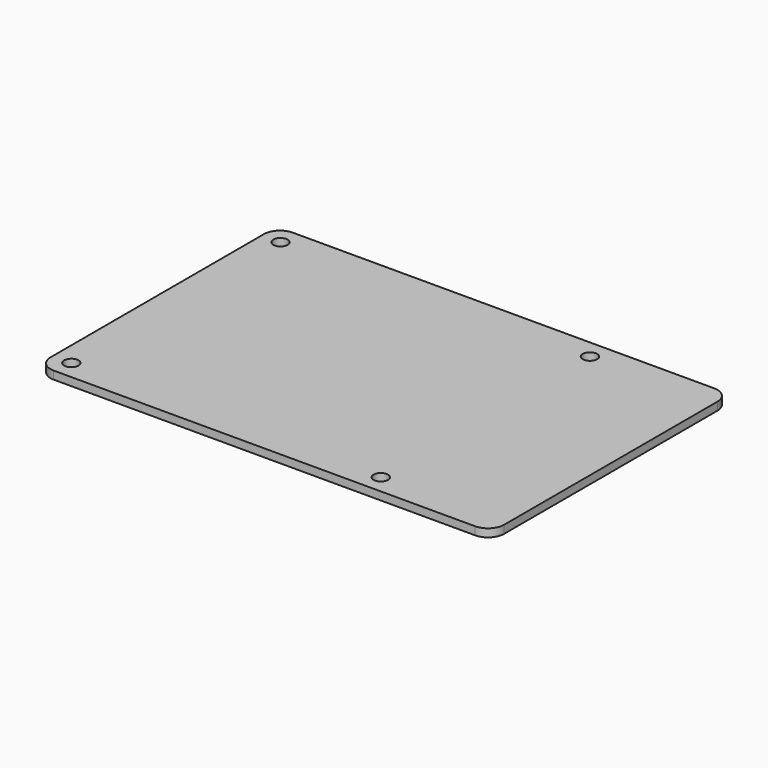
from build123d import *

# Parameters (mm, degrees)
CYLINDER_R     = 1.35
CYLINDER_DEPTH = 1.5
ARRAY_X_COUNT  = 2
ARRAY_X_PITCH  = 58
ARRAY_Y_COUNT  = 2
ARRAY_Y_PITCH  = 49
BOX_W          = 85
BOX_H          = 56
BOX_DEPTH      = 1.5
FILLET006_R    = 3


with BuildPart() as mounting_holes:
    # Cylinder → Cylinder (new body)
    with BuildSketch(Plane(origin=(3.5, 3.5, 0), x_dir=(1, 0, 0), z_dir=(0, 0, 1))):
        Circle(CYLINDER_R)
    extrude(amount=CYLINDER_DEPTH)

    # Array X: Mounting Holes ×2


with BuildPart() as mounting_holes_1:
    add(mounting_holes.part)
    with Locations(*[(i * ARRAY_X_PITCH, 0, 0) for i in range(1, ARRAY_X_COUNT)]):
        add(mounting_holes.part)

    # Array Y: Mounting Holes ×2


with BuildPart() as mounting_holes_2:
    add(mounting_holes_1.part)
    with Locations(*[(0, i * ARRAY_Y_PITCH, 0) for i in range(1, ARRAY_Y_COUNT)]):
        add(mounting_holes_1.part)


with BuildPart() as pcb:
    # Box → Box (new body)
    with BuildSketch(Plane.XY):
        with Locations((42.5, 28)):
            Rectangle(BOX_W, BOX_H)
    extrude(amount=BOX_DEPTH)

    # Fillet006
    fillet006_edges = [pcb.edges().sort_by_distance(p)[0] for p in [
        (0, 0, 0.75),
        (0, 56, 0.75),
        (85, 0, 0.75),
        (85, 56, 0.75),
    ]]
    fillet(fillet006_edges, radius=FILLET006_R)

    # Cut: cut Mounting Holes
    add(mounting_holes_2.part, mode=Mode.SUBTRACT)


solid = pcb.part
